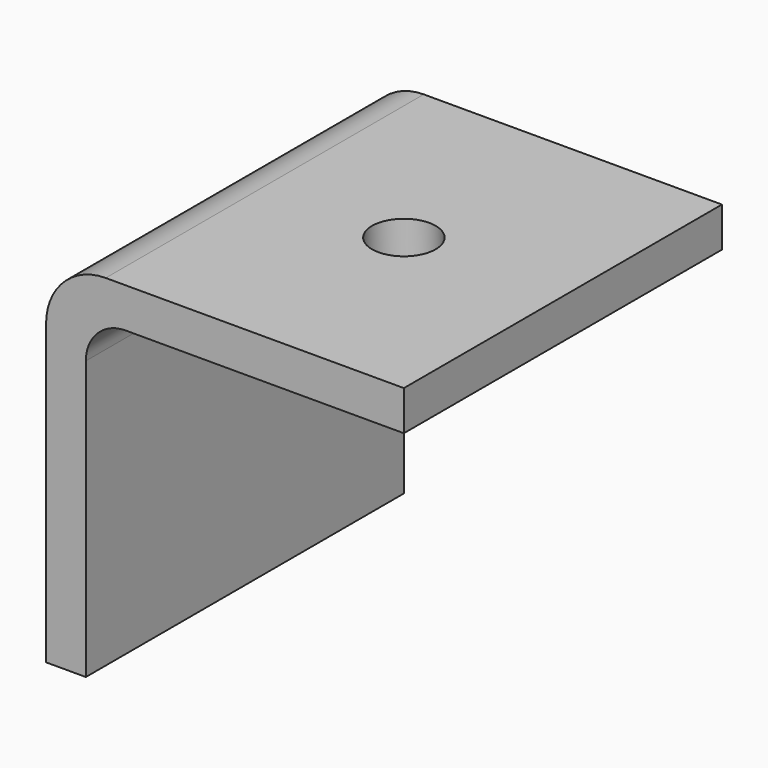
from build123d import *

# Parameters (mm, degrees)
F1_DEPTH = 20
F3_D     = 3.2
F4_R     = 3
F5_R     = 2


with BuildPart() as f1:
    # F0 (on Front) → F1 (new body)
    with BuildSketch(Plane.XZ):
        Polygon((-24.0542695144, 1.0263364321), (-24.0542695144, -16.9736635679), (-22.0542695144, -16.9736635679), (-22.0542695144, -0.9736635679), (-6.0542695144, -0.9736635679), (-6.0542695144, 1.0263364321), align=None)
    extrude(amount=F1_DEPTH)

    # F3 (through all)
    with Locations(Plane.XY.offset(1.0263364321)):
        with Locations((-14.0542695144, -10)):
            Hole(F3_D / 2)

    # F4
    f4_edges = [f1.edges().sort_by_distance(p)[0] for p in [
        (-24.05427, -10, 1.026336),
    ]]
    fillet(f4_edges, radius=F4_R)

    # F5
    f5_edges = [f1.edges().sort_by_distance(p)[0] for p in [
        (-22.05427, -10, -0.973664),
    ]]
    fillet(f5_edges, radius=F5_R)


solid = f1.part
